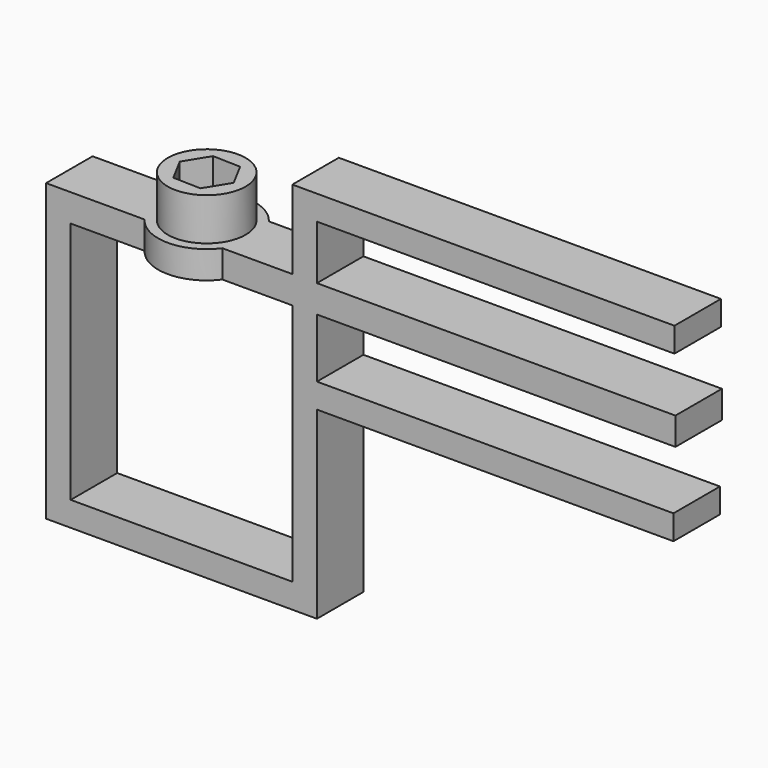
from build123d import *

# Parameters (mm, degrees)
F0_R      = 3.95
F1_DEPTH  = 2.92
F2_R      = 3.95
F3_DEPTH  = 3.91
F4_DEPTH  = 2.52
F5_R      = 4.93
F5_R_2    = 3.95
F6_DEPTH  = 2.8
F7_DEPTH  = 25
F12_W     = 5.8999661016
F12_H     = 2.8
F13_DEPTH = 46
F14_W     = 5.8999661016
F14_H     = 2.8
F15_DEPTH = 7.5
F16_W     = 5.8999661016
F16_H     = 30
F17_DEPTH = 2.5
F18_W     = 5.8999661016
F18_H     = 2.5
F19_DEPTH = 25
F20_W     = 2.5
F20_H     = 5.8999661016
F21_DEPTH = 25.7
F22_W     = 5.8999661016
F22_H     = 2.5
F23_DEPTH = 36.2
F24_W     = 2.5
F24_H     = 5.8999661016
F25_DEPTH = 8
F26_W     = 5.8999661016
F26_H     = 2.5
F27_DEPTH = 36.3


with BuildPart() as f1:
    # F0 (on Top) → F1 (new body)
    with BuildSketch(Plane.XY):
        Circle(F0_R)
        Polygon((-1.3292084984, 2.4757432758), (1.4794523209, 2.3889999645), (2.8086608193, -0.0867433114), (1.3292084984, -2.4757432758), (-1.4794523209, -2.3889999645), (-2.8086608193, 0.0867433114), align=None, mode=Mode.SUBTRACT)
    extrude(amount=F1_DEPTH)

    # F2 (on face) → F3 (join)
    with BuildSketch(Plane(origin=(0, 0, 0), x_dir=(1, 0, 0), z_dir=(0, 0, -1))):
        Circle(F2_R)
        Polygon((-1.4794523209, 2.3889999645), (1.3292084984, 2.4757432758), (2.8086608193, 0.0867433114), (1.4794523209, -2.3889999645), (-1.3292084984, -2.4757432758), (-2.8086608193, -0.0867433114), align=None, mode=Mode.SUBTRACT)
        Polygon((2.8086608193, 0.0867433114), (1.3292084984, 2.4757432758), (-1.4794523209, 2.3889999645), (-2.8086608193, -0.0867433114), (-1.3292084984, -2.4757432758), (1.4794523209, -2.3889999645), align=None)
        Polygon((-1.0503584983, 1.696104957), (0.9436907311, 1.7576896211), (1.9940492294, 0.0615846641), (1.0503584983, -1.696104957), (-0.9436907311, -1.7576896211), (-1.9940492294, -0.0615846641), align=None, mode=Mode.SUBTRACT)
    extrude(amount=F3_DEPTH)

    # F4 (cut): a face of the model
    f4_faces = [f1.faces().sort_by_distance(p)[0] for p in [
        (-3.8382771286, 0, -3.91),
    ]]
    extrude(f4_faces, amount=-F4_DEPTH, mode=Mode.SUBTRACT)

    # F5 (on face) → F6 (join)
    with BuildSketch(Plane(origin=(0, 0, -1.39), x_dir=(1, 0, 0), z_dir=(0, 0, -1))):
        Circle(F5_R)
        Circle(F5_R_2, mode=Mode.SUBTRACT)
        Circle(F5_R)
        Circle(F5_R_2, mode=Mode.SUBTRACT)
    extrude(amount=F6_DEPTH)

    # F5 (on face) → F7 (cut)
    with BuildSketch(Plane(origin=(0, 0, -1.39), x_dir=(1, 0, 0), z_dir=(0, 0, -1))):
        Circle(F5_R_2)
        Polygon((1.0503584983, -1.696104957), (-0.9436907311, -1.7576896211), (-1.9940492294, -0.0615846641), (-1.0503584983, 1.696104957), (0.9436907311, 1.7576896211), (1.9940492294, 0.0615846641), align=None, mode=Mode.SUBTRACT)
    extrude(amount=F7_DEPTH, mode=Mode.SUBTRACT)

    # F12 (on 3pt) → F13 (join)
    with BuildSketch(Plane.YZ.offset(3.95)):
        with Locations((0, -2.79)):
            Rectangle(F12_W, F12_H)
    extrude(amount=F13_DEPTH)

    # F14 (on 3pt) → F15 (join)
    with BuildSketch(Plane(origin=(-3.95, 0, 0), x_dir=(0, -1, 0), z_dir=(-1, 0, 0))):
        with Locations((0, -2.79)):
            Rectangle(F14_W, F14_H)
    extrude(amount=F15_DEPTH)

    # F16 (on face) → F17 (join)
    with BuildSketch(Plane(origin=(-11.45, 0, 0), x_dir=(0, -1, 0), z_dir=(-1, 0, 0))):
        with Locations((0, -16.39)):
            Rectangle(F16_W, F16_H)
    extrude(amount=F17_DEPTH)

    # F18 (on face) → F19 (join)
    with BuildSketch(Plane.YZ.offset(-11.45)):
        with Locations((0, -30.14)):
            Rectangle(F18_W, F18_H)
    extrude(amount=F19_DEPTH)

    # F20 (on face) → F21 (join)
    with BuildSketch(Plane.XY.offset(-28.89)):
        with Locations((12.3, 0)):
            Rectangle(F20_W, F20_H)
    extrude(amount=F21_DEPTH)

    # F22 (on face) → F23 (join)
    with BuildSketch(Plane.YZ.offset(13.55)):
        with Locations((0, -11.44)):
            Rectangle(F22_W, F22_H)
    extrude(amount=F23_DEPTH)

    # F24 (on face) → F25 (join)
    with BuildSketch(Plane.XY.offset(-1.39)):
        with Locations((12.3, 0)):
            Rectangle(F24_W, F24_H)
    extrude(amount=F25_DEPTH)

    # F26 (on face) → F27 (join)
    with BuildSketch(Plane.YZ.offset(13.55)):
        with Locations((0, 5.36)):
            Rectangle(F26_W, F26_H)
    extrude(amount=F27_DEPTH)


solid = f1.part
